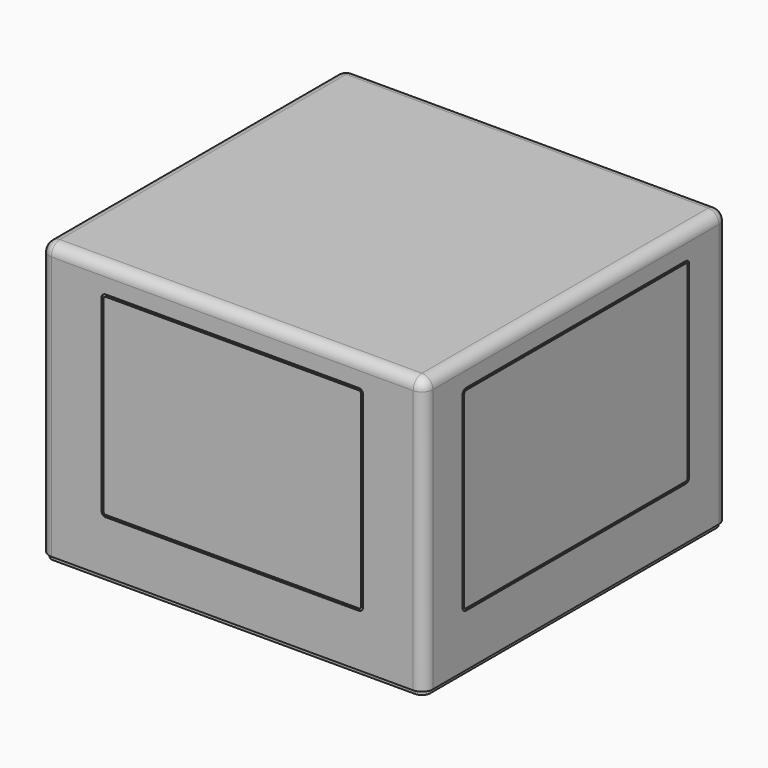
from build123d import *

# Parameters (mm, degrees)
F0_W      = 880
F0_H      = 870
F1_DEPTH  = 630
F2_R      = 25
F3_R      = 25
F4_T      = -3
F6_DEPTH  = 25
F8_DEPTH  = 25
F9_W      = 613.163381815
F9_H      = 470.3955724835
F10_DEPTH = 2
F12_DEPTH = 2500
F13_W     = 44.890999794
F13_H     = 29.0259420872
F14_DEPTH = 5
F15_W     = 35.4683995247
F15_H     = 31.7271649837
F16_DEPTH = 5
F17_R     = 2.5
F18_DEPTH = 10
F19_DEPTH = 5
F20_R     = 4
F21_DEPTH = 5
F24_DEPTH = 2
F28_R     = 2.5
F29_DEPTH = 25
F30_D     = 4.2
F31_D     = 4.2
F32_D     = 4.2
F33_D     = 5
F34_W     = 622.4048435688
F34_H     = 468.6831310391
F34_W_2   = 616.1362826824
F34_H_2   = 460.5973362923
F35_DEPTH = 25
F36_W     = 622.4048435688
F36_H     = 468.6831310391
F36_W_2   = 616.1362826824
F36_H_2   = 460.5973362923
F37_DEPTH = 3


with BuildPart() as f1:
    # F0 (on Top) → F1 (new body)
    with BuildSketch(Plane.XY):
        Rectangle(F0_W, F0_H)
    extrude(amount=F1_DEPTH)

    # F2
    f2_edges = [f1.edges().sort_by_distance(p)[0] for p in [
        (440, 0, 630),
        (-440, 0, 630),
    ]]
    fillet(f2_edges, radius=F2_R)

    # F3
    f3_edges = [f1.edges().sort_by_distance(p)[0] for p in [
        (0, -435, 630),
        (0, 435, 630),
    ]]
    fillet(f3_edges, radius=F3_R)

    # F4
    f4_openings = [f1.faces().sort_by_distance(p)[0] for p in [
        (0, 0, 0),
    ]]
    offset(amount=F4_T, openings=f4_openings)

    # F5 (on face) → F6 (cut)
    with BuildSketch(Plane(origin=(0, 435, 0), x_dir=(-1, 0, 0), z_dir=(0, 1, 0))):
        with BuildLine():
            Line((-290, 135), (290, 135))
            ThreePointArc((290, 135), (297.0710678119, 137.9289321881), (300, 145))
            Line((300, 145), (300, 575))
            ThreePointArc((300, 575), (297.0710678119, 582.0710678119), (290, 585))
            Line((290, 585), (-290, 585))
            ThreePointArc((-290, 585), (-297.0710678119, 582.0710678119), (-300, 575))
            Line((-300, 575), (-300, 145))
            ThreePointArc((-300, 145), (-297.0710678119, 137.9289321881), (-290, 135))
        make_face()
    extrude(amount=-F6_DEPTH, mode=Mode.SUBTRACT)

    # F7 (on face) → F8 (cut)
    with BuildSketch(Plane.XZ.offset(435)):
        with BuildLine():
            Line((-290, 120), (290, 120))
            ThreePointArc((290, 120), (297.0710678119, 122.9289321881), (300, 130))
            Line((300, 130), (300, 560))
            ThreePointArc((300, 560), (297.0710678119, 567.0710678119), (290, 570))
            Line((290, 570), (-290, 570))
            ThreePointArc((-290, 570), (-297.0710678119, 567.0710678119), (-300, 560))
            Line((-300, 560), (-300, 130))
            ThreePointArc((-300, 130), (-297.0710678119, 122.9289321881), (-290, 120))
        make_face()
        with BuildLine():
            ThreePointArc((290, 564.9999976158), (293.5355322201, 563.5355322201), (294.9999976158, 560))
            Line((294.9999976158, 560), (294.9999976158, 130))
            ThreePointArc((294.9999976158, 130), (293.5355322201, 126.4644677799), (290, 125.0000023842))
            Line((290, 125.0000023842), (-290, 125.0000023842))
            ThreePointArc((-290, 125.0000023842), (-293.5355322201, 126.4644677799), (-294.9999976158, 130))
            Line((-294.9999976158, 130), (-294.9999976158, 560))
            ThreePointArc((-294.9999976158, 560), (-293.5355322201, 563.5355322201), (-290, 564.9999976158))
            Line((-290, 564.9999976158), (290, 564.9999976158))
        make_face(mode=Mode.SUBTRACT)
    extrude(amount=-F8_DEPTH, mode=Mode.SUBTRACT)

    # F9 (on face) → F10 (join)
    with BuildSketch(Plane(origin=(0, -432, 0), x_dir=(-1, 0, 0), z_dir=(0, 1, 0))):
        with Locations((-1.9524842501, 345.3559838235)):
            Rectangle(F9_W, F9_H)
    extrude(amount=F10_DEPTH)

    # F11 (on face) → F12 (cut)
    with BuildSketch(Plane.YZ.offset(440)):
        with BuildLine():
            ThreePointArc((325, 560), (322.0710678119, 567.0710678119), (315, 570))
            Line((315, 570), (-315, 570))
            ThreePointArc((-315, 570), (-322.0710678119, 567.0710678119), (-325, 560))
            Line((-325, 560), (-325, 130))
            ThreePointArc((-325, 130), (-322.0710678119, 122.9289321881), (-315, 120))
            Line((-315, 120), (315, 120))
            ThreePointArc((315, 120), (322.0710678119, 122.9289321881), (325, 130))
            Line((325, 130), (325, 560))
        make_face()
        with BuildLine():
            ThreePointArc((315, 564.9999976158), (318.5355322201, 563.5355322201), (319.9999976158, 560))
            Line((319.9999976158, 560), (319.9999976158, 130))
            ThreePointArc((319.9999976158, 130), (318.5355322201, 126.4644677799), (315, 125.0000023842))
            Line((315, 125.0000023842), (-315, 125.0000023842))
            ThreePointArc((-315, 125.0000023842), (-318.5355322201, 126.4644677799), (-319.9999976158, 130))
            Line((-319.9999976158, 130), (-319.9999976158, 560))
            ThreePointArc((-319.9999976158, 560), (-318.5355322201, 563.5355322201), (-315, 564.9999976158))
            Line((-315, 564.9999976158), (315, 564.9999976158))
        make_face(mode=Mode.SUBTRACT)
    extrude(amount=-F12_DEPTH, mode=Mode.SUBTRACT)

    # F13 (on face) → F14 (join)
    with BuildSketch(Plane.YZ.offset(-437)):
        with Locations((-318.8917040825, 376.1520534754)):
            Rectangle(F13_W, F13_H)
    extrude(amount=F14_DEPTH)

    # F15 (on face) → F16 (join)
    with BuildSketch(Plane(origin=(437, 0, 0), x_dir=(0, -1, 0), z_dir=(-1, 0, 0))):
        with Locations((323.0160176754, 275.7323235273)):
            Rectangle(F15_W, F15_H)
    extrude(amount=F16_DEPTH)

    # F17 (on face) → F19 (cut)
    with BuildSketch(Plane(origin=(0, 0, 0), x_dir=(1, 0, 0), z_dir=(0, 0, -1))):
        with BuildLine():
            Line((437, -410), (437, 410))
            ThreePointArc((437, 410), (430.5563491861, 425.5563491861), (415, 432))
            Line((415, 432), (-415, 432))
            ThreePointArc((-415, 432), (-430.5563491861, 425.5563491861), (-437, 410))
            Line((-437, 410), (-437, -410))
            ThreePointArc((-437, -410), (-430.5563491861, -425.5563491861), (-415, -432))
            Line((-415, -432), (415, -432))
            ThreePointArc((415, -432), (430.5563491861, -425.5563491861), (437, -410))
        make_face()
        with BuildLine():
            ThreePointArc((415, 429), (428.4350288425, 423.4350288425), (434, 410))
            Line((434, 410), (434, -410))
            ThreePointArc((434, -410), (428.4350288425, -423.4350288425), (415, -429))
            Line((415, -429), (-415, -429))
            ThreePointArc((-415, -429), (-428.4350288425, -423.4350288425), (-434, -410))
            Line((-434, -410), (-434, 410))
            ThreePointArc((-434, 410), (-428.4350288425, 423.4350288425), (-415, 429))
            Line((-415, 429), (415, 429))
        make_face(mode=Mode.SUBTRACT)
    extrude(amount=-F19_DEPTH, mode=Mode.SUBTRACT)

    # F34 (on face) → F35 (join)
    with BuildSketch(Plane.XZ.offset(-432)):
        with Locations((4.632666707, 358.5824333131)):
            Rectangle(F34_W, F34_H)
        with Locations((4.9465447664, 358.4852516651)):
            Rectangle(F34_W_2, F34_H_2, mode=Mode.SUBTRACT)
    extrude(amount=F35_DEPTH)

    # F36 (on face) → F37 (join)
    with BuildSketch(Plane.XZ.offset(-407)):
        with Locations((4.632666707, 358.5824333131)):
            Rectangle(F36_W, F36_H)
        with Locations((4.9465447664, 358.4852516651)):
            Rectangle(F36_W_2, F36_H_2, mode=Mode.SUBTRACT)
        with Locations((4.9465447664, 358.4852516651)):
            Rectangle(F36_W_2, F36_H_2)
        with BuildLine():
            Line((-300, 145), (-300, 575))
            ThreePointArc((-300, 575), (-297.0710678119, 582.0710678119), (-290, 585))
            Line((-290, 585), (290, 585))
            ThreePointArc((290, 585), (297.0710678119, 582.0710678119), (300, 575))
            Line((300, 575), (300, 145))
            ThreePointArc((300, 145), (297.0710678119, 137.9289321881), (290, 135))
            Line((290, 135), (-290, 135))
            ThreePointArc((-290, 135), (-297.0710678119, 137.9289321881), (-300, 145))
        make_face(mode=Mode.SUBTRACT)
        with BuildLine():
            ThreePointArc((-290, 585), (-297.0710678119, 582.0710678119), (-300, 575))
            Line((-300, 575), (-300, 145))
            ThreePointArc((-300, 145), (-297.0710678119, 137.9289321881), (-290, 135))
            Line((-290, 135), (290, 135))
            ThreePointArc((290, 135), (297.0710678119, 137.9289321881), (300, 145))
            Line((300, 145), (300, 575))
            ThreePointArc((300, 575), (297.0710678119, 582.0710678119), (290, 585))
            Line((290, 585), (-290, 585))
        make_face()
        with BuildLine():
            Line((275, 550), (275, 170))
            ThreePointArc((275, 170), (272.0710678119, 162.9289321881), (265, 160))
            Line((265, 160), (-265, 160))
            ThreePointArc((-265, 160), (-272.0710678119, 162.9289321881), (-275, 170))
            Line((-275, 170), (-275, 550))
            ThreePointArc((-275, 550), (-272.0710678119, 557.0710678119), (-265, 560))
            Line((-265, 560), (265, 560))
            ThreePointArc((265, 560), (272.0710678119, 557.0710678119), (275, 550))
        make_face(mode=Mode.SUBTRACT)
    extrude(amount=F37_DEPTH)


with BuildPart() as f18:
    # F17 (on face) → F18 (new body)
    with BuildSketch(Plane(origin=(0, 0, 0), x_dir=(1, 0, 0), z_dir=(0, 0, -1))):
        with BuildLine():
            Line((434, -410), (434, 410))
            ThreePointArc((434, 410), (428.4350288425, 423.4350288425), (415, 429))
            Line((415, 429), (-415, 429))
            ThreePointArc((-415, 429), (-428.4350288425, 423.4350288425), (-434, 410))
            Line((-434, 410), (-434, -410))
            ThreePointArc((-434, -410), (-428.4350288425, -423.4350288425), (-415, -429))
            Line((-415, -429), (415, -429))
            ThreePointArc((415, -429), (428.4350288425, -423.4350288425), (434, -410))
        make_face()
        with Locations((-384.2228651047, -379)):
            Circle(F17_R, mode=Mode.SUBTRACT)
        with Locations((-351, -379)):
            Circle(F17_R, mode=Mode.SUBTRACT)
        with Locations((-384, -346)):
            Circle(F17_R, mode=Mode.SUBTRACT)
        with Locations((-351, -346)):
            Circle(F17_R, mode=Mode.SUBTRACT)
        with Locations((351, -379)):
            Circle(F17_R, mode=Mode.SUBTRACT)
        with Locations((384, -379)):
            Circle(F17_R, mode=Mode.SUBTRACT)
        with Locations((351, -346)):
            Circle(F17_R, mode=Mode.SUBTRACT)
        with Locations((384, -346)):
            Circle(F17_R, mode=Mode.SUBTRACT)
        with Locations((-384, 346)):
            Circle(F17_R, mode=Mode.SUBTRACT)
        with Locations((-351, 346)):
            Circle(F17_R, mode=Mode.SUBTRACT)
        with Locations((-384, 379)):
            Circle(F17_R, mode=Mode.SUBTRACT)
        with Locations((-351, 379)):
            Circle(F17_R, mode=Mode.SUBTRACT)
        with Locations((351, 346)):
            Circle(F17_R, mode=Mode.SUBTRACT)
        with Locations((384, 346)):
            Circle(F17_R, mode=Mode.SUBTRACT)
        with Locations((351, 379)):
            Circle(F17_R, mode=Mode.SUBTRACT)
        with Locations((384, 379)):
            Circle(F17_R, mode=Mode.SUBTRACT)
        with Locations((-384, 379)):
            Circle(F17_R)
        with Locations((-351, 379)):
            Circle(F17_R)
        with Locations((-351, 346)):
            Circle(F17_R)
        with Locations((-384, 346)):
            Circle(F17_R)
        with Locations((-384, -346)):
            Circle(F17_R)
        with Locations((-351, -346)):
            Circle(F17_R)
        with Locations((-351, -379)):
            Circle(F17_R)
        with Locations((-384.2228651047, -379)):
            Circle(F17_R)
        with Locations((384, -379)):
            Circle(F17_R)
        with Locations((384, -346)):
            Circle(F17_R)
        with Locations((351, -346)):
            Circle(F17_R)
        with Locations((351, -379)):
            Circle(F17_R)
        with Locations((351, 379)):
            Circle(F17_R)
        with Locations((384, 379)):
            Circle(F17_R)
        with Locations((384, 346)):
            Circle(F17_R)
        with Locations((351, 346)):
            Circle(F17_R)
    extrude(amount=F18_DEPTH)

    # F20 (on face) → F21 (cut)
    with BuildSketch(Plane(origin=(0, 0, -10), x_dir=(1, 0, 0), z_dir=(0, 0, -1))):
        with Locations((-35, 254)):
            Circle(F20_R)
        with Locations((35, 254)):
            Circle(F20_R)
        with Locations((35, -261)):
            Circle(F20_R)
        with Locations((-35, -261)):
            Circle(F20_R)
    extrude(amount=-F21_DEPTH, mode=Mode.SUBTRACT)

    # F23 (on face) → F24 (cut)
    with BuildSketch(Plane.XY):
        with BuildLine():
            ThreePointArc((353.38, -309), (363.38, -319), (373.38, -309))
            Line((373.38, -309), (373.38, 321))
            ThreePointArc((373.38, 321), (363.38, 331), (353.38, 321))
            Line((353.38, 321), (353.38, -309))
        make_face()
        with BuildLine():
            Line((-353.38, -309), (-353.38, 321))
            ThreePointArc((-353.38, 321), (-363.38, 331), (-373.38, 321))
            Line((-373.38, 321), (-373.38, -309))
            ThreePointArc((-373.38, -309), (-363.38, -319), (-353.38, -309))
        make_face()
    extrude(amount=-F24_DEPTH, mode=Mode.SUBTRACT)

    # F28 (on face) → F29 (cut)
    with BuildSketch(Plane(origin=(0, 0, -10), x_dir=(1, 0, 0), z_dir=(0, 0, -1))):
        with Locations((415, 0)):
            Circle(F28_R)
        with Locations((415, -300)):
            Circle(F28_R)
        with Locations((415, 300)):
            Circle(F28_R)
        with Locations((-415, 0)):
            Circle(F28_R)
        with Locations((-415, -300)):
            Circle(F28_R)
        with Locations((-415, 300)):
            Circle(F28_R)
        with Locations((0, 410)):
            Circle(F28_R)
        with Locations((-300, 410)):
            Circle(F28_R)
        with Locations((300, 410)):
            Circle(F28_R)
        with Locations((0, -410)):
            Circle(F28_R)
        with Locations((-300, -410)):
            Circle(F28_R)
        with Locations((300, -410)):
            Circle(F28_R)
    extrude(amount=-F29_DEPTH, mode=Mode.SUBTRACT)

    # F30 (through all)
    with Locations(Plane.XY):
        with Locations((351, -379), (351, -346), (384, -379), (384, -346), (-384, -379), (-351, -379), (-351, -346), (-384, -346), (-384.2228651047, 379), (-351, 379), (-351, 346), (-384, 346), (384, 346), (384, 379), (351, 379), (351, 346)):
            Hole(F30_D / 2)

    # F31 (through all)
    with Locations(Plane.XY.offset(-2)):
        with Locations((363.38, -219), (363.38, -159), (363.38, -99), (363.38, -39), (363.38, 21), (363.38, 81), (363.38, 141), (363.38, 201), (363.38, 261), (-363.38, -219), (-363.38, -159), (-363.38, -99), (-363.38, -39), (-363.38, 21), (-363.38, 81), (-363.38, 141), (-363.38, 201), (-363.38, 261)):
            Hole(F31_D / 2)

    # F32 (through all)
    with Locations(Plane(origin=(0, 0, -10), x_dir=(1, 0, 0), z_dir=(0, 0, -1))):
        with Locations((-200, 279), (-200, 219), (200, 279), (200, 219)):
            Hole(F32_D / 2)

    # F33 (through all)
    with Locations(Plane(origin=(0, 0, -5), x_dir=(1, 0, 0), z_dir=(0, 0, -1))):
        with Locations((-35, 254), (35, 254), (-35, -261), (35, -261)):
            Hole(F33_D / 2)


solid = Compound([f1.part, f18.part])
